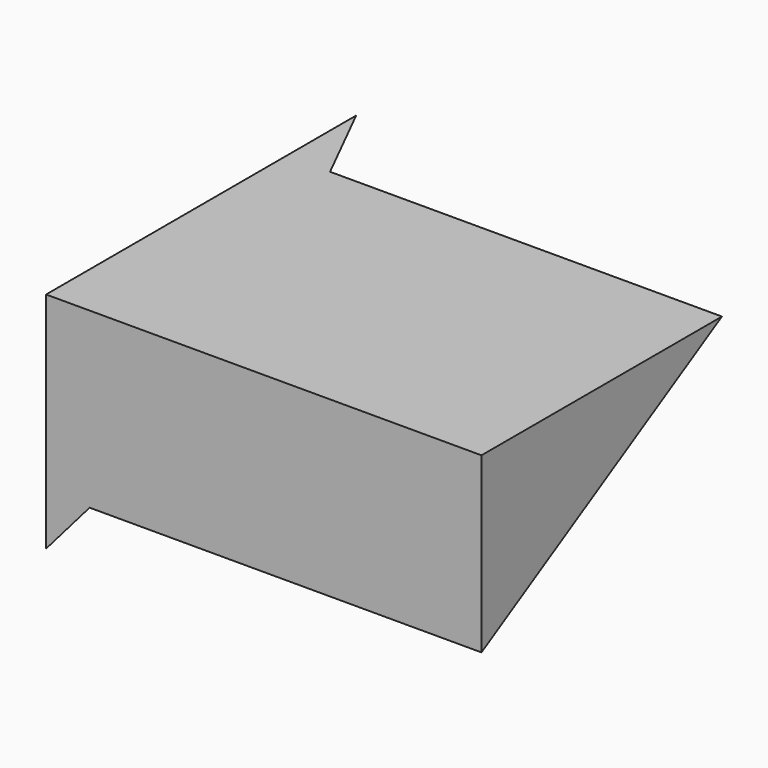
from build123d import *

# Parameters (mm, degrees)
EXTRUDE028_DEPTH        = 15
BODY011_PLACEMENT_ANGLE = 30
BOX002_W                = 10
BOX002_H                = 10
BOX002_DEPTH            = 10


with BuildPart() as body011:
    # Sketch031 (on Cut) → Extrude028 (new body)
    with BuildSketch(Plane.XZ):
        Polygon((0, 3), (1, 4), (10, 4), (10, 9), (0, 9), align=None)
    extrude(amount=EXTRUDE028_DEPTH)


with BuildPart() as body011_1:
    # Body011 placement: moved
    add(body011.part.moved(Location((12, -8.6, 32.4))).rotate(Axis((12, -8.6, 32.4), (1, 0, 0)), BODY011_PLACEMENT_ANGLE))


with BuildPart() as cable:
    # Box002 → Box002 (new body)
    with BuildSketch(Plane(origin=(12, -19, 35), x_dir=(1, 0, 0), z_dir=(0, 1, 0))):
        with Locations((5, 5)):
            Rectangle(BOX002_W, BOX002_H)
    extrude(amount=BOX002_DEPTH)

    # Common: intersect Body011
    add(body011_1.part, mode=Mode.INTERSECT)


solid = cable.part
